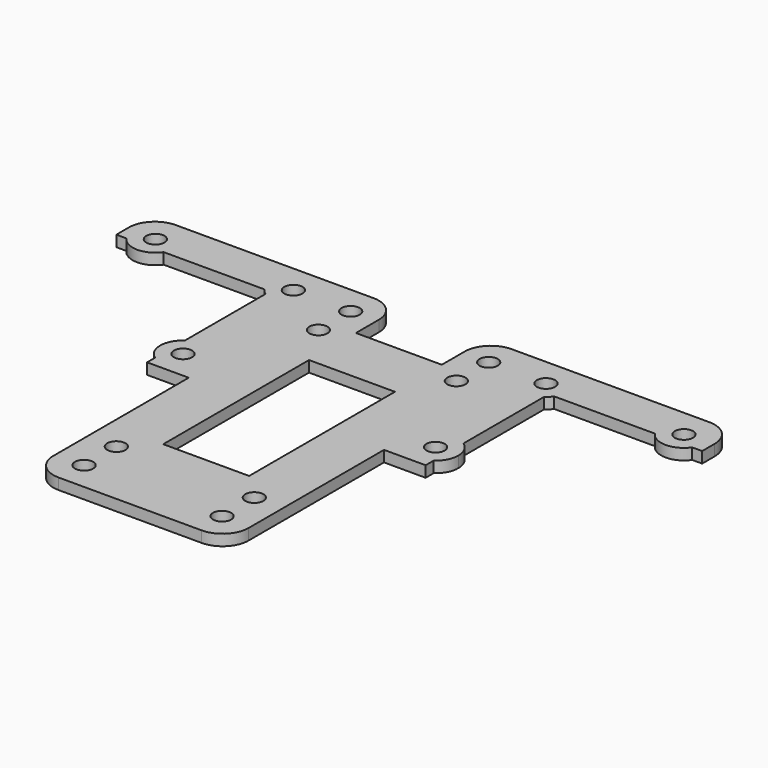
from build123d import *

# Parameters (mm, degrees)
F0_R     = 1.778
F0_W     = 16.764
F0_H     = 35.56
F1_DEPTH = 2.159
F2_R     = 5.08


with BuildPart() as f1:
    # F0 (on Top) → F1 (new body)
    with BuildSketch(Plane.XY):
        with BuildLine():
            Line((57.15, 10.922), (57.15, 19.05))
            Line((57.15, 19.05), (8.382, 19.05))
            Line((8.382, 19.05), (8.382, 8.382))
            Line((8.382, 8.382), (-8.382, 8.382))
            Line((-8.382, 8.382), (-8.382, 19.05))
            Line((-8.382, 19.05), (-57.15, 19.05))
            Line((-57.15, 19.05), (-57.15, 10.922))
            Line((-57.15, 10.922), (-55.209797, 10.922))
            ThreePointArc((-55.209797, 10.922), (-52.893083, 17.703019), (-47.117, 13.462))
            ThreePointArc((-47.117, 13.462), (-47.320981, 12.130917), (-47.914203, 10.922))
            Line((-47.914203, 10.922), (-28.285797, 10.922))
            ThreePointArc((-28.285797, 10.922), (-25.969083, 17.703019), (-20.193, 13.462))
            ThreePointArc((-20.193, 13.462), (-22.580365, 9.521929), (-27.178, 9.814203))
            Line((-27.178, 9.814203), (-27.178, -9.814203))
            ThreePointArc((-27.178, -9.814203), (-22.580365, -9.521929), (-20.193, -13.462))
            ThreePointArc((-20.193, -13.462), (-22.580365, -17.402071), (-27.178, -17.109797))
            Line((-27.178, -17.109797), (-27.178, -19.05))
            Line((-27.178, -19.05), (-19.05, -19.05))
            Line((-19.05, -19.05), (-19.05, -57.15))
            Line((-19.05, -57.15), (19.05, -57.15))
            Line((19.05, -57.15), (19.05, -19.05))
            Line((19.05, -19.05), (27.178, -19.05))
            Line((27.178, -19.05), (27.178, -17.109797))
            ThreePointArc((27.178, -17.109797), (20.193, -13.462), (27.178, -9.814203))
            Line((27.178, -9.814203), (27.178, 9.814203))
            ThreePointArc((27.178, 9.814203), (20.697929, 15.519635), (29.083, 13.462))
            ThreePointArc((29.083, 13.462), (28.879019, 12.130917), (28.285797, 10.922))
            Line((28.285797, 10.922), (47.914203, 10.922))
            ThreePointArc((47.914203, 10.922), (50.230917, 17.703019), (56.007, 13.462))
            ThreePointArc((56.007, 13.462), (55.803019, 12.130917), (55.209797, 10.922))
            Line((55.209797, 10.922), (57.15, 10.922))
        make_face()
        with Locations((-13.462, -51.562)):
            Circle(F0_R, mode=Mode.SUBTRACT)
        with Locations((-13.462, -43.688)):
            Circle(F0_R, mode=Mode.SUBTRACT)
        with Locations((13.462, -51.562)):
            Circle(F0_R, mode=Mode.SUBTRACT)
        with Locations((13.462, -43.688)):
            Circle(F0_R, mode=Mode.SUBTRACT)
        with Locations((0, -20.828)):
            Rectangle(F0_W, F0_H, mode=Mode.SUBTRACT)
        with Locations((-13.462, 5.588)):
            Circle(F0_R, mode=Mode.SUBTRACT)
        with Locations((-13.462, 13.462)):
            Circle(F0_R, mode=Mode.SUBTRACT)
        with Locations((13.462, 5.588)):
            Circle(F0_R, mode=Mode.SUBTRACT)
        with Locations((13.462, 13.462)):
            Circle(F0_R, mode=Mode.SUBTRACT)
        with BuildLine():
            ThreePointArc((47.914203, 10.922), (51.562, 9.017), (55.209797, 10.922))
            ThreePointArc((55.209797, 10.922), (55.803019, 12.130917), (56.007, 13.462))
            ThreePointArc((56.007, 13.462), (50.230917, 17.703019), (47.914203, 10.922))
        make_face()
        with Locations((51.562, 13.462)):
            Circle(F0_R, mode=Mode.SUBTRACT)
        with BuildLine():
            ThreePointArc((27.178, 9.814203), (27.78109, 10.31891), (28.285797, 10.922))
            ThreePointArc((28.285797, 10.922), (28.879019, 12.130917), (29.083, 13.462))
            ThreePointArc((29.083, 13.462), (20.697929, 15.519635), (27.178, 9.814203))
        make_face()
        with Locations((24.638, 13.462)):
            Circle(F0_R, mode=Mode.SUBTRACT)
        with BuildLine():
            ThreePointArc((29.083, -13.462), (28.578071, -11.404365), (27.178, -9.814203))
            ThreePointArc((27.178, -9.814203), (20.193, -13.462), (27.178, -17.109797))
            ThreePointArc((27.178, -17.109797), (28.578071, -15.519635), (29.083, -13.462))
        make_face()
        with Locations((24.638, -13.462)):
            Circle(F0_R, mode=Mode.SUBTRACT)
        with BuildLine():
            ThreePointArc((-47.117, 13.462), (-52.893083, 17.703019), (-55.209797, 10.922))
            ThreePointArc((-55.209797, 10.922), (-51.562, 9.017), (-47.914203, 10.922))
            ThreePointArc((-47.914203, 10.922), (-47.320981, 12.130917), (-47.117, 13.462))
        make_face()
        with Locations((-51.562, 13.462)):
            Circle(F0_R, mode=Mode.SUBTRACT)
        with BuildLine():
            ThreePointArc((-20.193, 13.462), (-25.969083, 17.703019), (-28.285797, 10.922))
            ThreePointArc((-28.285797, 10.922), (-27.78109, 10.31891), (-27.178, 9.814203))
            ThreePointArc((-27.178, 9.814203), (-22.580365, 9.521929), (-20.193, 13.462))
        make_face()
        with Locations((-24.638, 13.462)):
            Circle(F0_R, mode=Mode.SUBTRACT)
        with BuildLine():
            ThreePointArc((-20.193, -13.462), (-22.580365, -9.521929), (-27.178, -9.814203))
            ThreePointArc((-27.178, -9.814203), (-29.083, -13.462), (-27.178, -17.109797))
            ThreePointArc((-27.178, -17.109797), (-22.580365, -17.402071), (-20.193, -13.462))
        make_face()
        with Locations((-24.638, -13.462)):
            Circle(F0_R, mode=Mode.SUBTRACT)
    extrude(amount=F1_DEPTH)

    # F2
    f2_edges = [f1.edges().sort_by_distance(p)[0] for p in [
        (57.15, 19.05, 1.0795),
        (8.382, 19.05, 1.0795),
        (-8.382, 19.05, 1.0795),
        (19.05, -57.15, 1.0795),
        (-19.05, -57.15, 1.0795),
        (-57.15, 19.05, 1.0795),
    ]]
    fillet(f2_edges, radius=F2_R)


solid = f1.part
